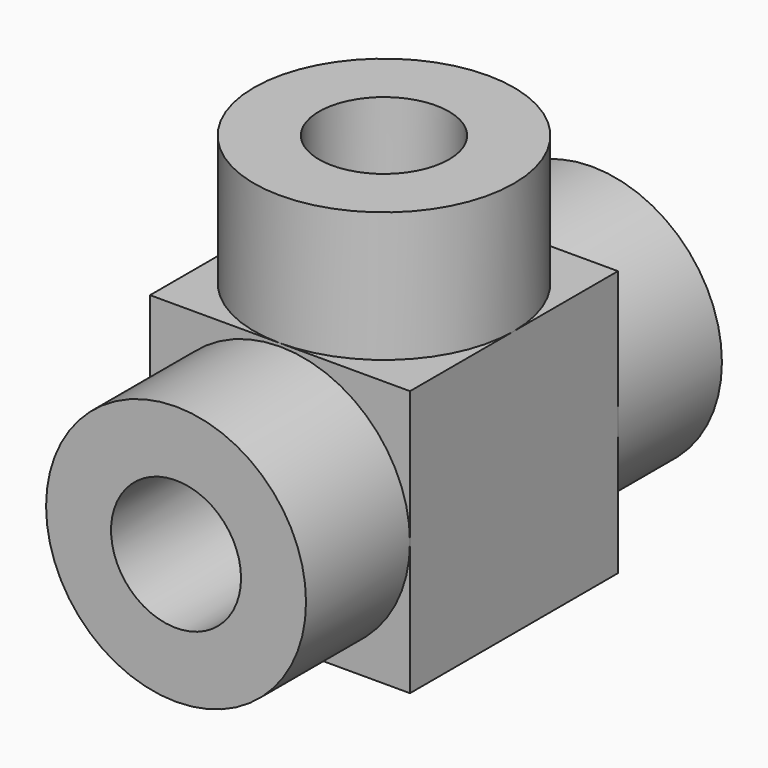
from build123d import *

# Parameters (mm, degrees)
F0_W          = 25.4
F0_H          = 25.4
F1_DEPTH      = 25.9842
F2_R          = 12.7
F2_R_2        = 6.35
F3_DEPTH      = 12.7
F4_R          = 12.7
F4_R_2        = 6.35
F5_DEPTH      = 12.7
F5_DEPTH_BACK = 38.1
F6_R          = 6.35
F7_DEPTH      = 38.101


with BuildPart() as f1:
    # F0 (on Top) → F1 (new body)
    with BuildSketch(Plane.XY):
        Rectangle(F0_W, F0_H)
    extrude(amount=F1_DEPTH)

    # F2 (on face) → F3 (join)
    with BuildSketch(Plane.XY.offset(25.9842)):
        Circle(F2_R)
        Circle(F2_R_2, mode=Mode.SUBTRACT)
    extrude(amount=F3_DEPTH)

    # F4 (on face) → F5 (join, two sides)
    with BuildSketch(Plane.XZ.offset(12.7)) as f5_sk:
        with Locations((0, 12.9921)):
            Circle(F4_R)
        with Locations((0, 12.9921)):
            Circle(F4_R_2, mode=Mode.SUBTRACT)
    extrude(amount=F5_DEPTH)
    extrude(f5_sk.sketch, amount=-F5_DEPTH_BACK)

    # F6 (on face) → F7 (cut, through all)
    with BuildSketch(Plane.XZ.offset(12.7)):
        with Locations((0, 12.9921)):
            Circle(F6_R)
    extrude(amount=-F7_DEPTH, mode=Mode.SUBTRACT)


solid = f1.part
